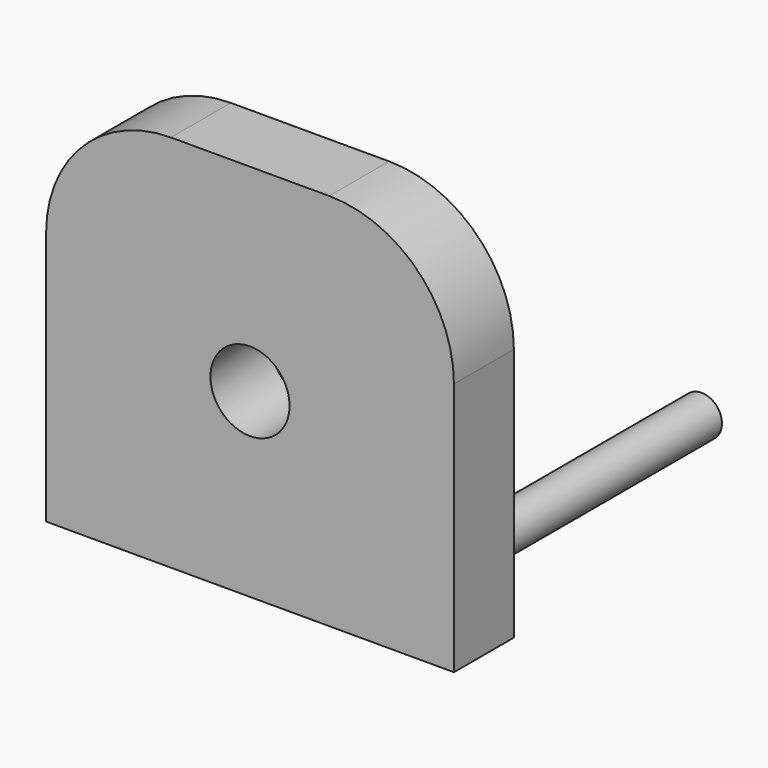
from build123d import *

# Parameters (mm, degrees)
F1_DEPTH = 9
F2_R     = 4.75
F3_DEPTH = 25
F4_R     = 2.45
F5_DEPTH = 35


with BuildPart() as f1:
    # F0 (on Front) → F1 (new body)
    with BuildSketch(Plane.XZ):
        with BuildLine():
            Line((-24.5, -22.75), (24.5, -22.75))
            Line((24.5, -22.75), (24.5, 7.75))
            ThreePointArc((24.5, 7.75), (20.106602, 18.356602), (9.5, 22.75))
            Line((9.5, 22.75), (-9.5, 22.75))
            ThreePointArc((-9.5, 22.75), (-20.106602, 18.356602), (-24.5, 7.75))
            Line((-24.5, 7.75), (-24.5, -22.75))
        make_face()
    extrude(amount=F1_DEPTH)

    # F2 (on face) → F3 (cut)
    with BuildSketch(Plane.XZ.offset(9)):
        with Locations((0, -1)):
            Circle(F2_R)
    extrude(amount=-F3_DEPTH, mode=Mode.SUBTRACT)

    # F4 (on face) → F5 (join)
    with BuildSketch(Plane(origin=(0, 0, 0), x_dir=(-1, 0, 0), z_dir=(0, 1, 0))):
        with Locations((-19.05, -15.3)):
            Circle(F4_R)
        with Locations((19.05, -15.3)):
            Circle(F4_R)
    extrude(amount=F5_DEPTH)


solid = f1.part
